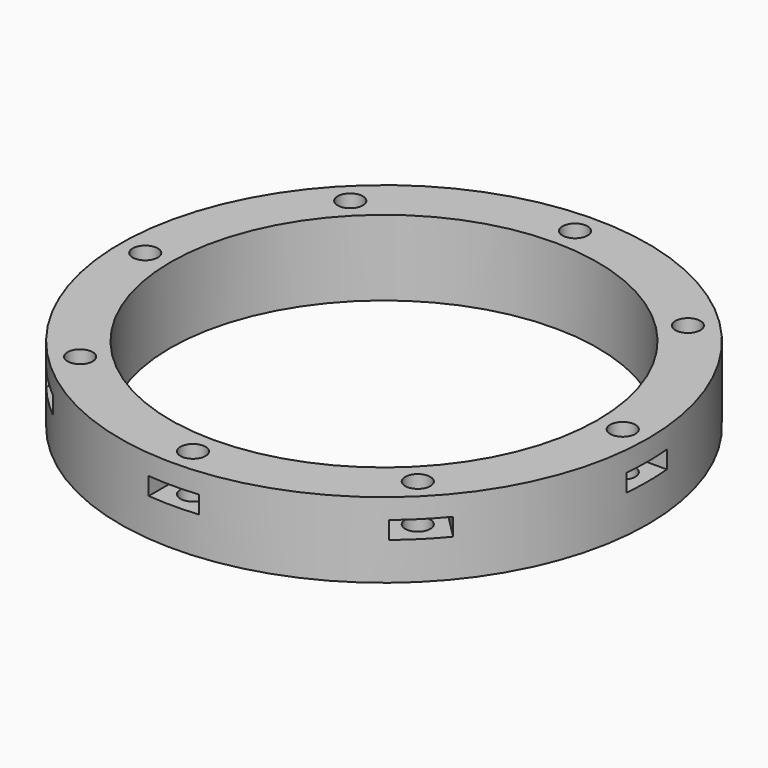
from build123d import *

# Parameters (mm, degrees)
CYLINDER2767_R               = 1
CYLINDER2767_DEPTH           = 10
CYLINDER2767_PLACEMENT_ANGLE = 45
CYLINDER2768_R               = 1
CYLINDER2768_DEPTH           = 10
CYLINDER2769_R               = 1
CYLINDER2769_DEPTH           = 10
CYLINDER2769_PLACEMENT_ANGLE = 135
CYLINDER2770_R               = 1
CYLINDER2770_DEPTH           = 10
CYLINDER2771_R               = 1
CYLINDER2771_DEPTH           = 10
CYLINDER2771_PLACEMENT_ANGLE = 225
CYLINDER2772_R               = 1
CYLINDER2772_DEPTH           = 10
CYLINDER2773_R               = 1
CYLINDER2773_DEPTH           = 10
CYLINDER2773_PLACEMENT_ANGLE = 45
CYLINDER2766_R               = 1
CYLINDER2766_DEPTH           = 10
BOX961_W                     = 4
BOX961_H                     = 4
BOX961_DEPTH                 = 1.4
BOX961_PLACEMENT_ANGLE       = 45
BOX964_W                     = 4
BOX964_H                     = 4
BOX964_DEPTH                 = 1.4
BOX962_W                     = 4
BOX962_H                     = 4
BOX962_DEPTH                 = 1.4
BOX962_PLACEMENT_ANGLE       = 135
BOX963_W                     = 4
BOX963_H                     = 4
BOX963_DEPTH                 = 1.4
BOX965_W                     = 4
BOX965_H                     = 4
BOX965_DEPTH                 = 1.4
BOX965_PLACEMENT_ANGLE       = 225
BOX967_W                     = 4
BOX967_H                     = 4
BOX967_DEPTH                 = 1.4
BOX966_W                     = 4
BOX966_H                     = 4
BOX966_DEPTH                 = 1.4
BOX966_PLACEMENT_ANGLE       = 45
BOX960_W                     = 4
BOX960_H                     = 4
BOX960_DEPTH                 = 1.4
TUBE135_R                    = 21
TUBE135_R_2                  = 17
TUBE135_DEPTH                = 6


with BuildPart() as obj1:
    # Cylinder2767 → Cylinder2767 (new body)
    with BuildSketch(Plane.XY):
        Circle(CYLINDER2767_R)
    extrude(amount=CYLINDER2767_DEPTH)


with BuildPart() as obj1_1:
    # Cylinder2767 placement: moved
    add(obj1.part.moved(Location((-13.435029, 13.435029, -20))).rotate(Axis((-13.435029, 13.435029, -20), (0, 0, 1)), CYLINDER2767_PLACEMENT_ANGLE))


with BuildPart() as obj2:
    # Cylinder2768 → Cylinder2768 (new body)
    with BuildSketch(Plane(origin=(-19, 0, -20), x_dir=(0, 1, 0), z_dir=(0, 0, 1))):
        Circle(CYLINDER2768_R)
    extrude(amount=CYLINDER2768_DEPTH)


with BuildPart() as obj3:
    # Cylinder2769 → Cylinder2769 (new body)
    with BuildSketch(Plane.XY):
        Circle(CYLINDER2769_R)
    extrude(amount=CYLINDER2769_DEPTH)


with BuildPart() as obj3_1:
    # Cylinder2769 placement: moved
    add(obj3.part.moved(Location((-13.435029, -13.435029, -20))).rotate(Axis((-13.435029, -13.435029, -20), (0, 0, 1)), CYLINDER2769_PLACEMENT_ANGLE))


with BuildPart() as obj4:
    # Cylinder2770 → Cylinder2770 (new body)
    with BuildSketch(Plane(origin=(0, -19, -20), x_dir=(-1, 0, 0), z_dir=(0, 0, 1))):
        Circle(CYLINDER2770_R)
    extrude(amount=CYLINDER2770_DEPTH)


with BuildPart() as obj5:
    # Cylinder2771 → Cylinder2771 (new body)
    with BuildSketch(Plane.XY):
        Circle(CYLINDER2771_R)
    extrude(amount=CYLINDER2771_DEPTH)


with BuildPart() as obj5_1:
    # Cylinder2771 placement: moved
    add(obj5.part.moved(Location((13.435029, -13.435029, -20))).rotate(Axis((13.435029, -13.435029, -20), (0, 0, 1)), CYLINDER2771_PLACEMENT_ANGLE))


with BuildPart() as obj6:
    # Cylinder2772 → Cylinder2772 (new body)
    with BuildSketch(Plane(origin=(19, 0, -20), x_dir=(0, -1, 0), z_dir=(0, 0, 1))):
        Circle(CYLINDER2772_R)
    extrude(amount=CYLINDER2772_DEPTH)


with BuildPart() as obj7:
    # Cylinder2773 → Cylinder2773 (new body)
    with BuildSketch(Plane.XY):
        Circle(CYLINDER2773_R)
    extrude(amount=CYLINDER2773_DEPTH)


with BuildPart() as obj7_1:
    # Cylinder2773 placement: moved
    add(obj7.part.moved(Location((13.435029, 13.435029, -20))).rotate(Axis((13.435029, 13.435029, -20), (0, 0, -1)), CYLINDER2773_PLACEMENT_ANGLE))


with BuildPart() as compound1237:
    # Cylinder2766 → Cylinder2766 (new body)
    with BuildSketch(Plane(origin=(0, 19, -20), x_dir=(1, 0, 0), z_dir=(0, 0, 1))):
        Circle(CYLINDER2766_R)
    extrude(amount=CYLINDER2766_DEPTH)

    # Compound1237: union obj1, obj2, obj3, obj4, obj5, obj6, obj7
    add(obj1_1.part)
    add(obj2.part)
    add(obj3_1.part)
    add(obj4.part)
    add(obj5_1.part)
    add(obj6.part)
    add(obj7_1.part)


with BuildPart() as krychle960:
    # Box961 → Box961 (new body)
    with BuildSketch(Plane.XY):
        with Locations((2, 2)):
            Rectangle(BOX961_W, BOX961_H)
    extrude(amount=BOX961_DEPTH)


with BuildPart() as krychle960_1:
    # Box961 placement: moved
    add(krychle960.part.moved(Location((-13.435029, 10.606602, -13))).rotate(Axis((-13.435029, 10.606602, -13), (0, 0, 1)), BOX961_PLACEMENT_ANGLE))


with BuildPart() as krychle963:
    # Box964 → Box964 (new body)
    with BuildSketch(Plane(origin=(-17, -2, -13), x_dir=(0, 1, 0), z_dir=(0, 0, 1))):
        with Locations((2, 2)):
            Rectangle(BOX964_W, BOX964_H)
    extrude(amount=BOX964_DEPTH)


with BuildPart() as krychle961:
    # Box962 → Box962 (new body)
    with BuildSketch(Plane.XY):
        with Locations((2, 2)):
            Rectangle(BOX962_W, BOX962_H)
    extrude(amount=BOX962_DEPTH)


with BuildPart() as krychle961_1:
    # Box962 placement: moved
    add(krychle961.part.moved(Location((-10.606602, -13.435029, -13))).rotate(Axis((-10.606602, -13.435029, -13), (0, 0, 1)), BOX962_PLACEMENT_ANGLE))


with BuildPart() as krychle962:
    # Box963 → Box963 (new body)
    with BuildSketch(Plane(origin=(2, -17, -13), x_dir=(-1, 0, 0), z_dir=(0, 0, 1))):
        with Locations((2, 2)):
            Rectangle(BOX963_W, BOX963_H)
    extrude(amount=BOX963_DEPTH)


with BuildPart() as krychle964:
    # Box965 → Box965 (new body)
    with BuildSketch(Plane.XY):
        with Locations((2, 2)):
            Rectangle(BOX965_W, BOX965_H)
    extrude(amount=BOX965_DEPTH)


with BuildPart() as krychle964_1:
    # Box965 placement: moved
    add(krychle964.part.moved(Location((13.435029, -10.606602, -13))).rotate(Axis((13.435029, -10.606602, -13), (0, 0, 1)), BOX965_PLACEMENT_ANGLE))


with BuildPart() as krychle966:
    # Box967 → Box967 (new body)
    with BuildSketch(Plane(origin=(17, 2, -13), x_dir=(0, -1, 0), z_dir=(0, 0, 1))):
        with Locations((2, 2)):
            Rectangle(BOX967_W, BOX967_H)
    extrude(amount=BOX967_DEPTH)


with BuildPart() as krychle965:
    # Box966 → Box966 (new body)
    with BuildSketch(Plane.XY):
        with Locations((2, 2)):
            Rectangle(BOX966_W, BOX966_H)
    extrude(amount=BOX966_DEPTH)


with BuildPart() as krychle965_1:
    # Box966 placement: moved
    add(krychle965.part.moved(Location((10.606602, 13.435029, -13))).rotate(Axis((10.606602, 13.435029, -13), (0, 0, -1)), BOX966_PLACEMENT_ANGLE))


with BuildPart() as compound1236:
    # Box960 → Box960 (new body)
    with BuildSketch(Plane(origin=(-2, 17, -13), x_dir=(1, 0, 0), z_dir=(0, 0, 1))):
        with Locations((2, 2)):
            Rectangle(BOX960_W, BOX960_H)
    extrude(amount=BOX960_DEPTH)

    # Compound1236: union Krychle960, Krychle963, Krychle961, Krychle962, Krychle964, Krychle966, Krychle965
    add(krychle960_1.part)
    add(krychle963.part)
    add(krychle961_1.part)
    add(krychle962.part)
    add(krychle964_1.part)
    add(krychle966.part)
    add(krychle965_1.part)


with BuildPart() as cut1045:
    # Tube135 → Tube135 (new body)
    with BuildSketch(Plane.XY.offset(-16)):
        Circle(TUBE135_R)
        Circle(TUBE135_R_2, mode=Mode.SUBTRACT)
    extrude(amount=TUBE135_DEPTH)

    # Cut1044: cut Compound1236
    add(compound1236.part, mode=Mode.SUBTRACT)

    # Cut1045: cut Compound1237
    add(compound1237.part, mode=Mode.SUBTRACT)


solid = cut1045.part
